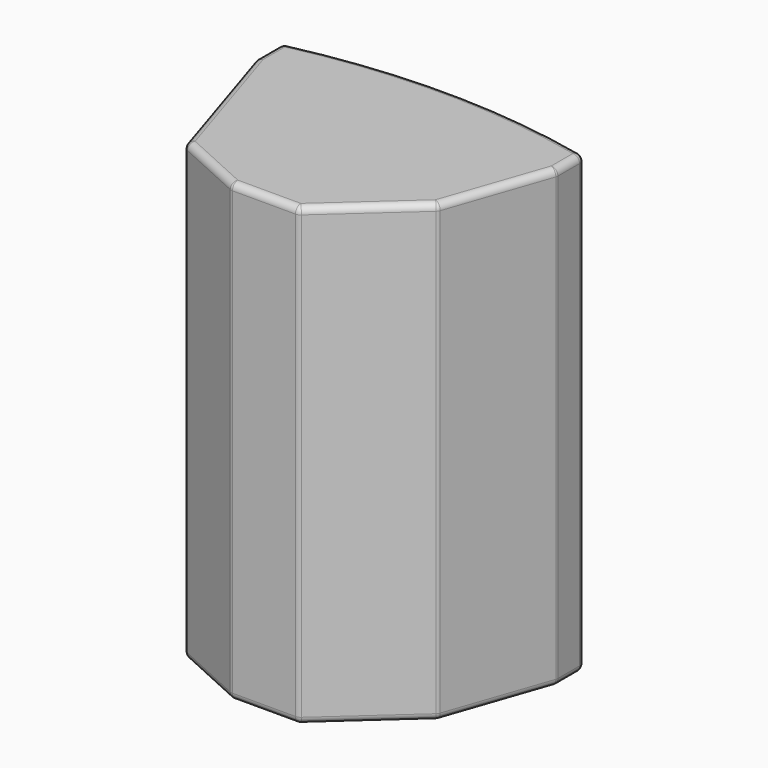
from build123d import *

# Parameters (mm, degrees)
F1_DEPTH = 340
F2_R     = 10


with BuildPart() as f1:
    # F0 (on Top) → F1 (new body, symmetric)
    with BuildSketch(Plane.XY):
        with BuildLine():
            Line((225, -50), (225, 0))
            ThreePointArc((225, 0), (0, 25.641237), (-225, 0))
            Line((-225, 0), (-225, -50))
            Line((-225, -50), (-156.175058, -266.073386))
            Line((-156.175058, -266.073386), (-50, -314.358763))
            Line((-50, -314.358763), (50, -314.358763))
            Line((50, -314.358763), (171.62508, -204.769474))
            Line((171.62508, -204.769474), (225, -50))
        make_face()
    extrude(amount=F1_DEPTH, both=True)

    # F2
    f2_edges = [f1.edges().sort_by_distance(p)[0] for p in [
        (225, 0, 0),
        (0, 25.641237, -340),
        (-225, 0, 0),
        (0, 25.641237, 340),
        (-225, -25, -340),
        (-225, -50, 0),
        (-225, -25, 340),
        (-190.587529, -158.036693, -340),
        (-156.175058, -266.073386, 0),
        (-190.587529, -158.036693, 340),
        (225, -50, 0),
        (225, -25, -340),
        (225, -25, 340),
        (171.62508, -204.769474, 0),
        (198.31254, -127.384737, -340),
        (198.31254, -127.384737, 340),
        (110.81254, -259.564119, -340),
        (110.81254, -259.564119, 340),
        (50, -314.358763, 0),
        (0, -314.358763, -340),
        (0, -314.358763, 340),
        (-50, -314.358763, 0),
        (-103.087529, -290.216075, -340),
        (-103.087529, -290.216075, 340),
    ]]
    fillet(f2_edges, radius=F2_R)


solid = f1.part
